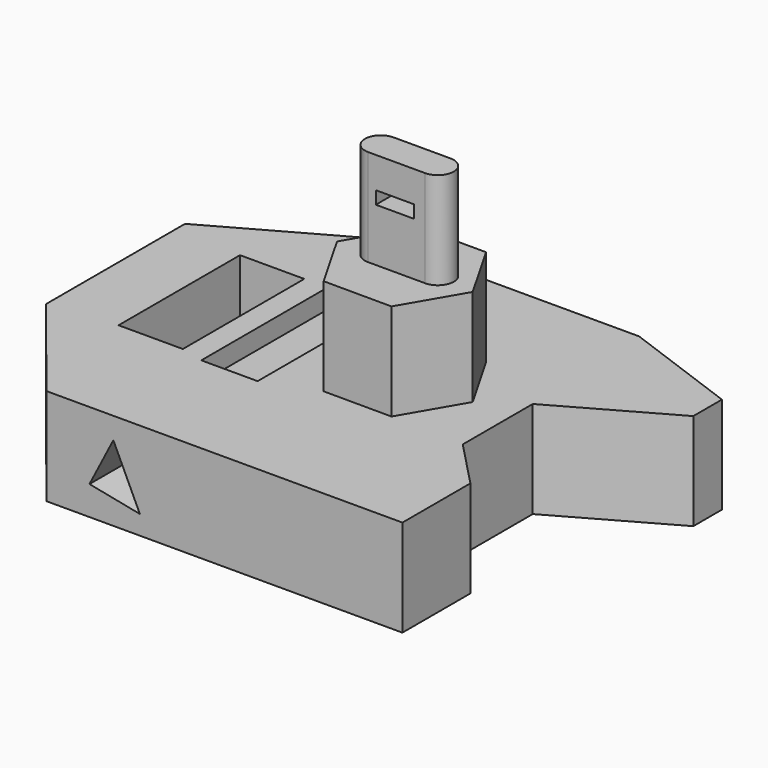
from build123d import *

# Parameters (mm, degrees)
PAD_DEPTH       = 10
SKETCH001_W     = 6.633416
SKETCH001_H     = 15.660333
POCKET_DEPTH    = 10.001
SKETCH002_W     = 5.812787
SKETCH002_H     = 16.139036
POCKET001_DEPTH = 2
PAD001_DEPTH    = 10
PAD002_DEPTH    = 10
POCKET002_DEPTH = 5
SKETCH006_W     = 3.933146
SKETCH006_H     = 1.321291
POCKET003_DEPTH = 18.532975


with BuildPart() as part:
    # Sketch → Pad (new body)
    with BuildSketch(Plane.XY):
        Polygon((-15.728714, 20.823448), (11.625568, 20.823448), (23.729843, 16.378376), (23.729843, 12.685549), (12.309424, 6.257293), (12.309424, -2.769621), (17.036469, -7.693392), (17.036469, -16.460198), (-19.695082, -16.460198), (-29.200699, -4.616035), (-29.200699, 13.301021), align=None)
    extrude(amount=PAD_DEPTH)

    # Sketch001 → Pocket (cut, through all)
    with BuildSketch(Plane.XY.offset(10)):
        with Locations((-19.00863, 3.966925)):
            Rectangle(SKETCH001_W, SKETCH001_H)
    extrude(amount=-POCKET_DEPTH, mode=Mode.SUBTRACT)

    # Sketch002 → Pocket001 (cut)
    with BuildSketch(Plane.XY.offset(10)):
        with Locations((-10.392027, 3.590804)):
            Rectangle(SKETCH002_W, SKETCH002_H)
    extrude(amount=-POCKET001_DEPTH, mode=Mode.SUBTRACT)

    # Sketch003 → Pad001 (new body)
    with BuildSketch(Plane.XY.offset(10)):
        Polygon((4.789602, -2.563913), (8.316681, 3.499667), (4.829006, 9.585997), (-2.185748, 9.608747), (-5.712827, 3.545167), (-2.225152, -2.541163), align=None)
    extrude(amount=PAD001_DEPTH)

    # Sketch004 → Pad002 (new body)
    with BuildSketch(Plane.XY.offset(20)):
        with BuildLine():
            ThreePointArc((-1.50189, 5.573991), (-3.143149, 3.932732), (-1.50189, 2.291473))
            Line((-1.50189, 2.291473), (4.379285, 2.291473))
            ThreePointArc((4.379285, 2.291473), (6.020544, 3.932732), (4.379285, 5.573991))
            Line((-1.50189, 5.573991), (4.379285, 5.573991))
        make_face()
    extrude(amount=PAD002_DEPTH)

    # Sketch005 → Pocket002 (cut)
    with BuildSketch(Plane.XZ.offset(16.460198)):
        Polygon((-15.247426, 2.998008), (-12.785538, 7.785009), (-10.05011, 1.972221), align=None)
    extrude(amount=-POCKET002_DEPTH, mode=Mode.SUBTRACT)

    # Sketch006 → Pocket003 (cut, through all)
    with BuildSketch(Plane.XZ.offset(-2.291473)):
        with Locations((1.261401, 26.136292)):
            Rectangle(SKETCH006_W, SKETCH006_H)
    extrude(amount=-POCKET003_DEPTH, mode=Mode.SUBTRACT)


solid = part.part
